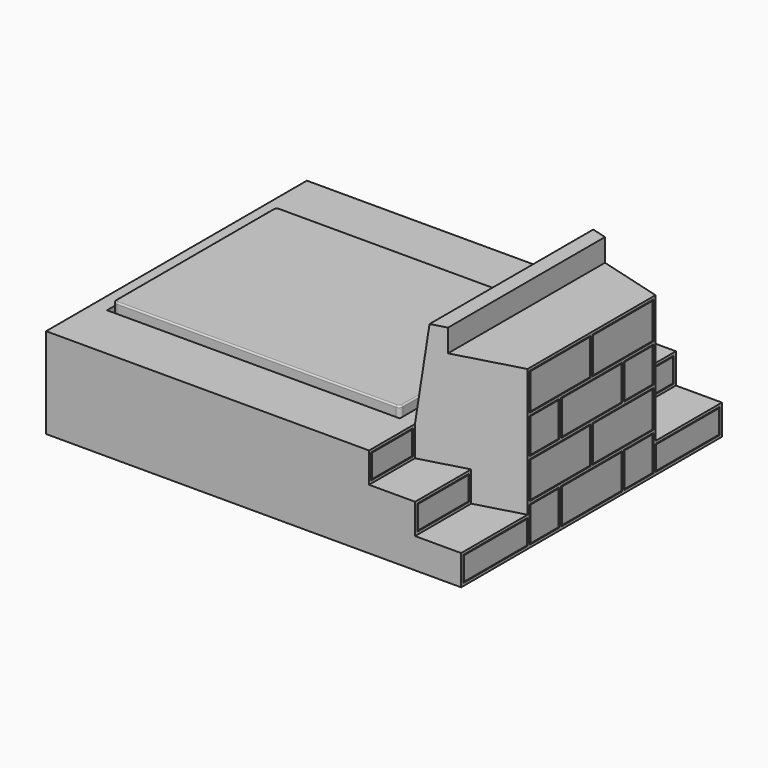
from build123d import *

# Parameters (mm, degrees)
F0_W           = 2750
F0_H           = 2160
F0_W_2         = 1940
F0_H_2         = 1400
F1_DEPTH       = 600
F3_DEPTH       = 200
F4_DEPTH       = 400
F6_DEPTH       = 600
F8_DEPTH       = 150
F9_W           = 532
F9_H           = 164
F9_W_2         = 522
F9_H_2         = 154
F10_DEPTH      = 25
F11_W          = 429
F11_H          = 164
F11_W_2        = 419.0000095367
F11_H_2        = 154.0000095367
F12_DEPTH      = 25
F13_W          = 344
F13_H          = 164
F13_W_2        = 334.0000095367
F13_H_2        = 154.0000095367
F14_DEPTH      = 25
F15_W          = 493
F15_H          = 234.5
F15_W_2        = 503
F15_H_2        = 244.5
F15_W_3        = 242.5
F15_H_3        = 235.5
F15_W_4        = 232.5000095367
F15_H_4        = 225.5000095367
F16_DEPTH      = 25
F17_W          = 3195.5926638842
F17_H          = 1080
F18_DEPTH      = 600.001
F18_DEPTH_BACK = 600.001
F20_W          = 1940
F20_H          = 1400
F21_DEPTH      = 350
F22_W          = 1900
F22_H          = 1350
F23_DEPTH      = 300
F24_R          = 25
F29_W          = 167.1301784746
F29_H          = 132
F27_W          = 167.1301784746
F27_H          = 132
F32_DEPTH      = 2160.001
F33_R          = 10


with BuildPart() as f1:
    # F0 (on Top) → F1 (new body)
    with BuildSketch(Plane.XY):
        with Locations((197.4975842237, 0)):
            Rectangle(F0_W, F0_H)
        with Locations((-107.5024157763, 0)):
            Rectangle(F0_W_2, F0_H_2, mode=Mode.SUBTRACT)
    extrude(amount=F1_DEPTH)

    # F2 (on face) → F3 (cut)
    with BuildSketch(Plane.XY.offset(600)):
        Polygon((1267.4975842237, 1080), (962.4975842237, 1080), (962.4975842237, 700), (1267.4975842237, 615), align=None)
        Polygon((1267.4975842237, -615), (962.4975842237, -700), (962.4975842237, -1080), (1267.4975842237, -1080), align=None)
    extrude(amount=-F3_DEPTH, mode=Mode.SUBTRACT)

    # F2 (on face) → F4 (cut)
    with BuildSketch(Plane.XY.offset(600)):
        Polygon((1572.4975842237, -530), (1267.4975842237, -615), (1267.4975842237, -1080), (1572.4975842237, -1080), align=None)
        Polygon((1572.4975842237, 1080), (1267.4975842237, 1080), (1267.4975842237, 615), (1572.4975842237, 530), align=None)
    extrude(amount=-F4_DEPTH, mode=Mode.SUBTRACT)

    # F5 (on face) → F6 (join)
    with BuildSketch(Plane.XY.offset(600)):
        Polygon((1572.4975842237, -530), (1572.4975842237, 530), (962.4975842237, 700), (962.4975842237, -700), align=None)
    extrude(amount=F6_DEPTH)

    # F7 (on face) → F8 (cut)
    with BuildSketch(Plane.XY.offset(1200)):
        Polygon((1572.4975842237, 530), (1141.4890827762, 650.1171233542), (1141.4890827762, -650.1171233542), (1572.4975842237, -530), align=None)
    extrude(amount=-F8_DEPTH, mode=Mode.SUBTRACT)

    # F9 (on face) → F10 (cut)
    with BuildSketch(Plane.YZ.offset(1572.4975842237)):
        with Locations((-796, 100)):
            Rectangle(F9_W, F9_H)
        with Locations((-796, 100)):
            Rectangle(F9_W_2, F9_H_2, mode=Mode.SUBTRACT)
    extrude(amount=-F10_DEPTH, mode=Mode.SUBTRACT)

    # F11 (on face) → F12 (cut)
    with BuildSketch(Plane.YZ.offset(1267.4975842237)):
        with Locations((-847.5, 300)):
            Rectangle(F11_W, F11_H)
        with Locations((-847.5, 300)):
            Rectangle(F11_W_2, F11_H_2, mode=Mode.SUBTRACT)
    extrude(amount=-F12_DEPTH, mode=Mode.SUBTRACT)

    # F13 (on face) → F14 (cut)
    with BuildSketch(Plane.YZ.offset(962.4975842237)):
        with Locations((-890, 500)):
            Rectangle(F13_W, F13_H)
        with Locations((-890, 500)):
            Rectangle(F13_W_2, F13_H_2, mode=Mode.SUBTRACT)
    extrude(amount=-F14_DEPTH, mode=Mode.SUBTRACT)

    # F15 (on face) → F16 (cut)
    with BuildSketch(Plane.YZ.offset(1572.4975842237)):
        Polygon((-9, 787.5), (-9, 1032), (-512, 1032), (-512, 787.5), (-260.5, 787.5), align=None)
        with Locations((-260.5, 909.75)):
            Rectangle(F15_W, F15_H, mode=Mode.SUBTRACT)
        with Locations((260.5, 909.75)):
            Rectangle(F15_W_2, F15_H_2)
        with Locations((260.5, 909.75)):
            Rectangle(F15_W, F15_H, mode=Mode.SUBTRACT)
        with Locations((-390.75, 651.75)):
            Rectangle(F15_W_3, F15_H_3)
        with Locations((-390.75, 651.75)):
            Rectangle(F15_W_4, F15_H_4, mode=Mode.SUBTRACT)
        with Locations((0, 651.75)):
            Rectangle(F15_W_2, F15_H_3)
        Polygon((246.5000047684, 538.9999952316), (-246.5000047684, 538.9999952316), (-246.5000047684, 651.75), (-246.5000047684, 764.5000047684), (246.5000047684, 764.5000047684), (246.5000047684, 651.75), align=None, mode=Mode.SUBTRACT)
        with Locations((390.75, 651.75)):
            Rectangle(F15_W_3, F15_H_3)
        with Locations((390.75, 651.75)):
            Rectangle(F15_W_4, F15_H_4, mode=Mode.SUBTRACT)
        Polygon((512, 271.5), (512, 516), (9, 516), (9, 393.75), (9, 271.5), align=None)
        Polygon((14, 276.5), (14, 393.75), (14, 511), (507, 511), (507, 276.5), align=None, mode=Mode.SUBTRACT)
        Polygon((-9, 516), (-512, 516), (-512, 271.5), (-9, 271.5), (-9, 393.75), align=None)
        Polygon((-14, 511), (-14, 393.75), (-14, 276.5), (-507, 276.5), (-507, 511), align=None, mode=Mode.SUBTRACT)
        with Locations((390.75, 135.75)):
            Rectangle(F15_W_3, F15_H_3)
        with Locations((390.75, 135.75)):
            Rectangle(F15_W_4, F15_H_4, mode=Mode.SUBTRACT)
        with Locations((0, 135.75)):
            Rectangle(F15_W_2, F15_H_3)
        Polygon((-246.5000047684, 135.75), (-246.5000047684, 248.5000047684), (246.5000047684, 248.5000047684), (246.5000047684, 135.75), (246.5000047684, 22.9999952316), (-246.5000047684, 22.9999952316), align=None, mode=Mode.SUBTRACT)
        with Locations((-390.75, 135.75)):
            Rectangle(F15_W_3, F15_H_3)
        with Locations((-390.75, 135.75)):
            Rectangle(F15_W_4, F15_H_4, mode=Mode.SUBTRACT)
    extrude(amount=-F16_DEPTH, mode=Mode.SUBTRACT)

    # F17 (on face) → F18 (cut, two sides)
    with BuildSketch(Plane.XY.offset(600)) as f18_sk:
        with Locations((420.2939161658, 540)):
            Rectangle(F17_W, F17_H)
    extrude(amount=F18_DEPTH, mode=Mode.SUBTRACT)
    extrude(f18_sk.sketch, amount=-F18_DEPTH_BACK, mode=Mode.SUBTRACT)

    # F19: F1 across face


with BuildPart() as f1_1:
    add(f1.part)
    add(f1.part.mirror(Plane(origin=(1230.0313780775, 0, 528.6800777303), x_dir=(-1, 0, 0), z_dir=(0, 1, 0))))

    # F20 (on face) → F21 (join)
    with BuildSketch(Plane(origin=(0, 0, 0), x_dir=(1, 0, 0), z_dir=(0, 0, -1))):
        with Locations((-107.5024157763, 0)):
            Rectangle(F20_W, F20_H)
    extrude(amount=-F21_DEPTH)

    # F22 (on face) → F23 (join)
    with BuildSketch(Plane.XY.offset(350)):
        with Locations((-107.5024157763, 0)):
            Rectangle(F22_W, F22_H)
    extrude(amount=F23_DEPTH)

    # F24
    f24_edges = [f1_1.edges().sort_by_distance(p)[0] for p in [
        (-1057.502416, 675, 500),
        (-1057.502416, -675, 500),
        (842.497584, 675, 500),
        (842.497584, -675, 500),
    ]]
    fillet(f24_edges, radius=F24_R)

    # F29 (on plane+point) → F30 section 0
    with BuildSketch(Plane(origin=(245.7346139254, 881.7536146733, 0), x_dir=(-0.9632913238, 0.2684582378, 0), z_dir=(0.2684582378, 0.9632913238, 0))):
        with Locations((-827.6421431545, 1116)):
            Rectangle(F29_W, F29_H)
    # F27 (on plane+point) → F30 section 1
    with BuildSketch(Plane(origin=(245.7346139254, -881.7536146733, 0), x_dir=(0.9632913238, 0.2684582378, 0), z_dir=(0.2684582378, -0.9632913238, 0))):
        with Locations((827.6421431545, 1116)):
            Rectangle(F27_W, F27_H)
    loft(mode=Mode.SUBTRACT)

    # F31 (on face) → F32 (cut, through all)
    with BuildSketch(Plane.XZ.offset(1080)):
        Polygon((962.4975842237, 600), (1041.4890827762, 1200), (962.4975842237, 1200), align=None)
    extrude(amount=-F32_DEPTH, mode=Mode.SUBTRACT)

    # F33
    f33_edges = [f1_1.edges().sort_by_distance(p)[0] for p in [
        (-107.502416, -675, 650),
        (-1050.180085, -667.67767, 650),
        (835.175254, -667.67767, 650),
        (-1057.502416, 0, 650),
        (842.497584, 0, 650),
        (-1050.180085, 667.67767, 650),
        (835.175254, 667.67767, 650),
        (-107.502416, 675, 650),
    ]]
    fillet(f33_edges, radius=F33_R)


solid = f1_1.part
